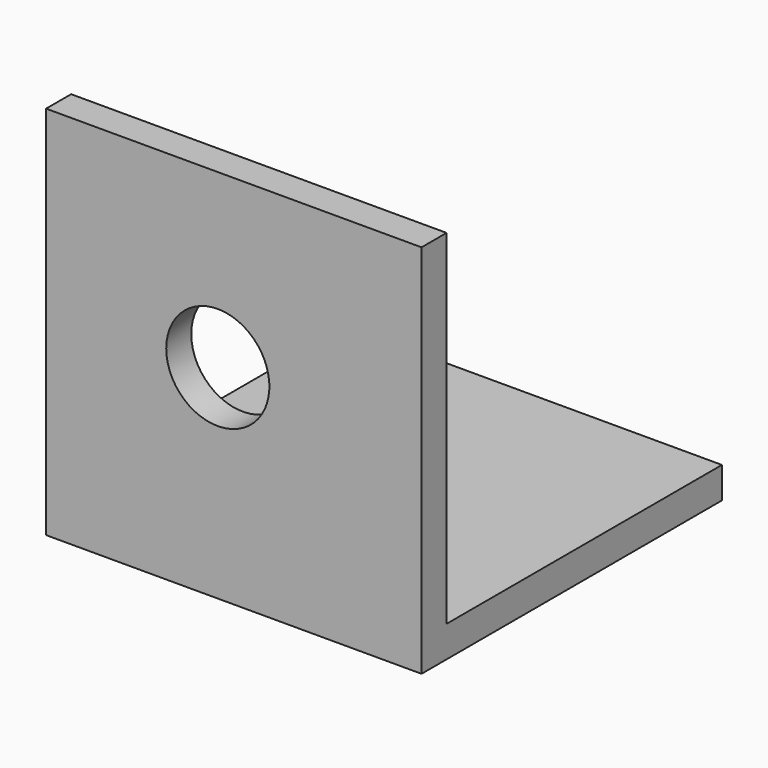
from build123d import *

# Parameters (mm, degrees)
F1_DEPTH = 19.05
F2_R     = 2.6162
F3_DEPTH = 25.4
F4_R     = 2.6162
F5_DEPTH = 25.4


with BuildPart() as f1:
    # F0 (on Right) → F1 (new body)
    with BuildSketch(Plane.YZ):
        Polygon((0, -17.4625), (0, 0), (-1.5875, 0), (-1.5875, -19.05), (17.4625, -19.05), (17.4625, -17.4625), align=None)
    extrude(amount=-F1_DEPTH)

    # F2 (on face) → F3 (cut)
    with BuildSketch(Plane.XY.offset(-17.4625)):
        with Locations((-10.3378, 8.73125)):
            Circle(F2_R)
    extrude(amount=-F3_DEPTH, mode=Mode.SUBTRACT)

    # F4 (on face) → F5 (cut)
    with BuildSketch(Plane(origin=(0, 0, 0), x_dir=(-1, 0, 0), z_dir=(0, 1, 0))):
        with Locations((10.3378, -8.73125)):
            Circle(F4_R)
    extrude(amount=-F5_DEPTH, mode=Mode.SUBTRACT)


solid = f1.part
